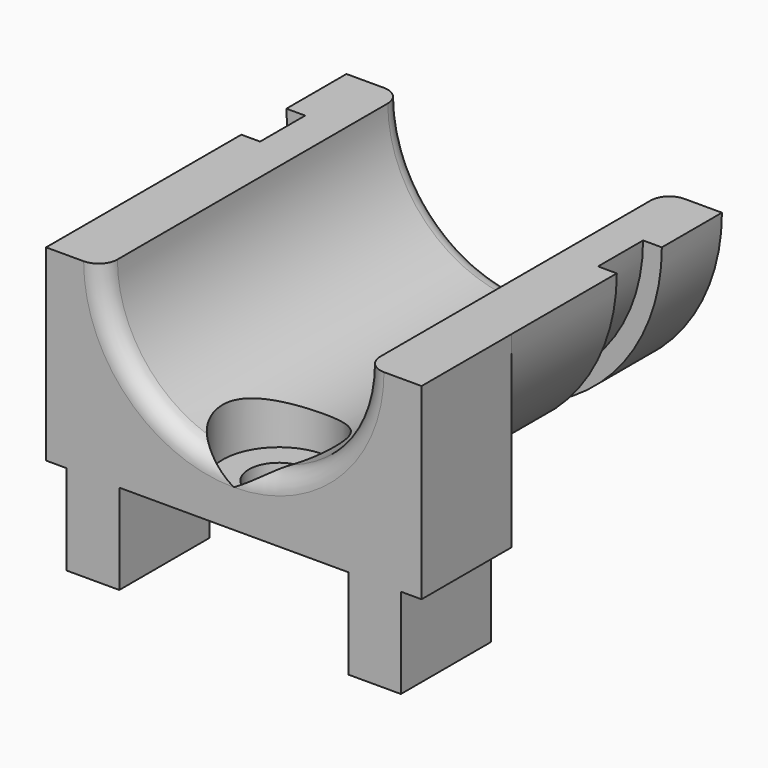
from build123d import *

# Parameters (mm, degrees)
CYLINDER057_R     = 1.6
CYLINDER057_DEPTH = 4
CYLINDER056_R     = 3
CYLINDER056_DEPTH = 3
BOX033_W          = 2
BOX033_H          = 6
BOX033_DEPTH      = 4
BOX031_W          = 2
BOX031_H          = 6
BOX031_DEPTH      = 10
BOX032_W          = 2
BOX032_H          = 6
BOX032_DEPTH      = 10
BOX030_W          = 2.8
BOX030_H          = 6
BOX030_DEPTH      = 5
BOX029_W          = 2.8
BOX029_H          = 6
BOX029_DEPTH      = 5
BOX028_W          = 20
BOX028_H          = 6
BOX028_DEPTH      = 2
BOX034_W          = 2
BOX034_H          = 6
BOX034_DEPTH      = 4
CYLINDER055_R     = 9
CYLINDER055_DEPTH = 3
CYLINDER054_R     = 10
CYLINDER054_DEPTH = 3
BOX035_W          = 20
BOX035_H          = 20
BOX035_DEPTH      = 10
CYLINDER053_R     = 7
CYLINDER053_DEPTH = 20
CYLINDER052_R     = 10
CYLINDER052_DEPTH = 20
FILLET001005_R    = 1
FILLET001006_R    = 1


with BuildPart() as cylinder057:
    # Cylinder057 → Cylinder057 (new body)
    with BuildSketch(Plane(origin=(10, 3, 0), x_dir=(1, 0, 0), z_dir=(0, 0, 1))):
        Circle(CYLINDER057_R)
    extrude(amount=CYLINDER057_DEPTH)


with BuildPart() as fusion009003002004003002004004_body:
    # Cylinder056 → Cylinder056 (new body)
    with BuildSketch(Plane(origin=(10, 3, 1.1), x_dir=(1, 0, 0), z_dir=(0, 0, 1))):
        Circle(CYLINDER056_R)
    extrude(amount=CYLINDER056_DEPTH)

    # Fusion009003002004003002004004003002006004002003003004002002003002005003: union Cylinder057
    add(cylinder057.part)


with BuildPart() as cube033:
    # Box033 → Box033 (new body)
    with BuildSketch(Plane(origin=(16, 0, 0), x_dir=(1, 0, 0), z_dir=(0, 0, 1))):
        with Locations((1, 3)):
            Rectangle(BOX033_W, BOX033_H)
    extrude(amount=BOX033_DEPTH)


with BuildPart() as cube031:
    # Box031 → Box031 (new body)
    with BuildSketch(Plane.XY):
        with Locations((1, 3)):
            Rectangle(BOX031_W, BOX031_H)
    extrude(amount=BOX031_DEPTH)


with BuildPart() as cube032:
    # Box032 → Box032 (new body)
    with BuildSketch(Plane(origin=(18, 0, 0), x_dir=(1, 0, 0), z_dir=(0, 0, 1))):
        with Locations((1, 3)):
            Rectangle(BOX032_W, BOX032_H)
    extrude(amount=BOX032_DEPTH)


with BuildPart() as cube030:
    # Box030 → Box030 (new body)
    with BuildSketch(Plane(origin=(16.1, 0, -4.8), x_dir=(1, 0, 0), z_dir=(0, 0, 1))):
        with Locations((1.4, 3)):
            Rectangle(BOX030_W, BOX030_H)
    extrude(amount=BOX030_DEPTH)


with BuildPart() as cube029:
    # Box029 → Box029 (new body)
    with BuildSketch(Plane(origin=(1.1, 0, -4.8), x_dir=(1, 0, 0), z_dir=(0, 0, 1))):
        with Locations((1.4, 3)):
            Rectangle(BOX029_W, BOX029_H)
    extrude(amount=BOX029_DEPTH)


with BuildPart() as cube028:
    # Box028 → Box028 (new body)
    with BuildSketch(Plane.XY):
        with Locations((10, 3)):
            Rectangle(BOX028_W, BOX028_H)
    extrude(amount=BOX028_DEPTH)


with BuildPart() as top_mount_base:
    # Box034 → Box034 (new body)
    with BuildSketch(Plane(origin=(2, 0, 0), x_dir=(1, 0, 0), z_dir=(0, 0, 1))):
        with Locations((1, 3)):
            Rectangle(BOX034_W, BOX034_H)
    extrude(amount=BOX034_DEPTH)

    # Fusion009003002004003002004004003002006004002003003004002002003002004: union Cube033, Cube031, Cube032, Cube030, Cube029, Cube028
    add(cube033.part)
    add(cube031.part)
    add(cube032.part)
    add(cube030.part)
    add(cube029.part)
    add(cube028.part)


with BuildPart() as cylinder055:
    # Cylinder055 → Cylinder055 (new body)
    with BuildSketch(Plane(origin=(10, 0, 10), x_dir=(1, 0, 0), z_dir=(0, 1, 0))):
        Circle(CYLINDER055_R)
    extrude(amount=CYLINDER055_DEPTH)


with BuildPart() as cut002009005003004003013008004:
    # Cylinder054 → Cylinder054 (new body)
    with BuildSketch(Plane(origin=(10, 0, 10), x_dir=(1, 0, 0), z_dir=(0, 1, 0))):
        Circle(CYLINDER054_R)
    extrude(amount=CYLINDER054_DEPTH)

    # Cut002009005003004003013008004: cut Cylinder055
    add(cylinder055.part, mode=Mode.SUBTRACT)


with BuildPart() as cut002009005003004003013008004_1:
    # Cut002009005003004003013008004 placement: moved
    add(cut002009005003004003013008004.part.moved(Location((0, 13, 0))))


with BuildPart() as cube035:
    # Box035 → Box035 (new body)
    with BuildSketch(Plane.XY.offset(10)):
        with Locations((10, 10)):
            Rectangle(BOX035_W, BOX035_H)
    extrude(amount=BOX035_DEPTH)


with BuildPart() as cylinder053:
    # Cylinder053 → Cylinder053 (new body)
    with BuildSketch(Plane(origin=(10, 0, 10), x_dir=(1, 0, 0), z_dir=(0, 1, 0))):
        Circle(CYLINDER053_R)
    extrude(amount=CYLINDER053_DEPTH)


with BuildPart() as base_top_mount_base_6mm:
    # Cylinder052 → Cylinder052 (new body)
    with BuildSketch(Plane(origin=(10, 0, 10), x_dir=(1, 0, 0), z_dir=(0, 1, 0))):
        Circle(CYLINDER052_R)
    extrude(amount=CYLINDER052_DEPTH)

    # Cut002009005003004003013008002: cut Cylinder053
    add(cylinder053.part, mode=Mode.SUBTRACT)

    # Fillet001005
    fillet001005_edges = [base_top_mount_base_6mm.edges().sort_by_distance(p)[0] for p in [
        (3, 0, 10),
    ]]
    fillet(fillet001005_edges, radius=FILLET001005_R)

    # Fillet001006
    fillet001006_edges = [base_top_mount_base_6mm.edges().sort_by_distance(p)[0] for p in [
        (3, 20, 10),
    ]]
    fillet(fillet001006_edges, radius=FILLET001006_R)

    # Cut002009005003004003013008003: cut Cube035
    add(cube035.part, mode=Mode.SUBTRACT)

    # Cut002009005003004003013008005: cut Cut002009005003004003013008004
    add(cut002009005003004003013008004_1.part, mode=Mode.SUBTRACT)

    # Fusion009003002004003002004004003002006004002003003004002002003002005002: union top-mount-base
    add(top_mount_base.part)

    # Cut002009005003004003013008005002: cut Fusion009003002004003002004004 body
    add(fusion009003002004003002004004_body.part, mode=Mode.SUBTRACT)


solid = base_top_mount_base_6mm.part
